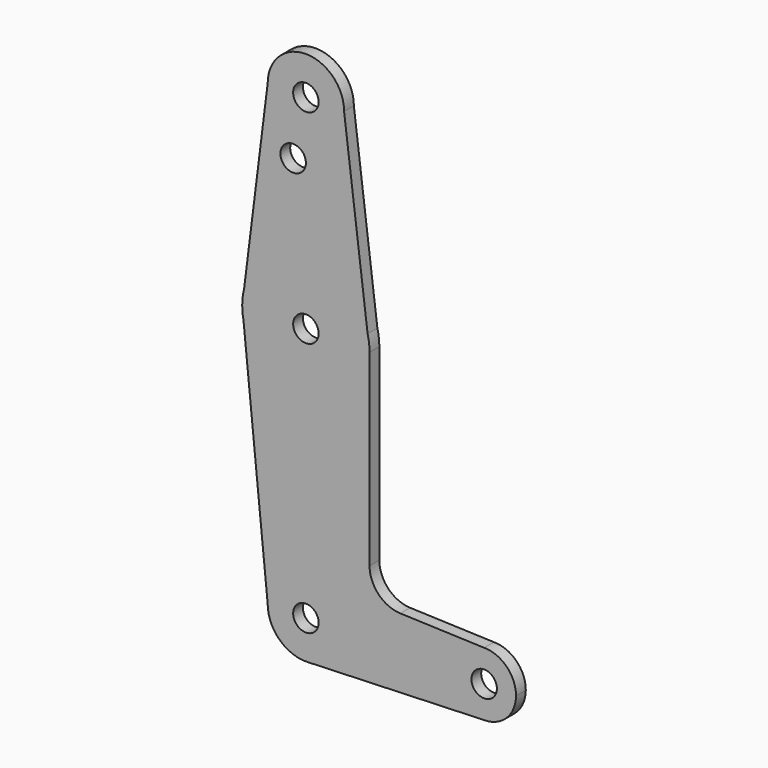
from build123d import *

# Parameters (mm, degrees)
F0_R     = 3.175
F1_DEPTH = 3.048


with BuildPart() as f1:
    # F0 (on Front) → F1 (new body)
    with BuildSketch(Plane.XZ):
        with BuildLine():
            ThreePointArc((-9.525, 114.3), (0, 104.775), (9.525, 114.3))
            ThreePointArc((9.525, 114.3), (0, 123.825), (-9.525, 114.3))
        make_face()
        with Locations((0, 114.3)):
            Circle(F0_R, mode=Mode.SUBTRACT)
        with BuildLine():
            Line((15.3865384615, 67.4076923077), (9.525, 114.3))
            ThreePointArc((9.525, 114.3), (0, 104.775), (-9.525, 114.3))
            Line((-9.525, 114.3), (-15.3865384615, 67.4076923077))
            ThreePointArc((-15.3865384615, 67.4076923077), (0, 79.375), (15.3865384615, 67.4076923077))
        make_face()
        with Locations((-3.175, 99.886942851)):
            Circle(F0_R, mode=Mode.SUBTRACT)
        with BuildLine():
            Line((15.875, 63.5), (15.3865384615, 67.4076923077))
            ThreePointArc((15.3865384615, 67.4076923077), (0, 79.375), (-15.3865384615, 67.4076923077))
            Line((-15.3865384615, 67.4076923077), (-15.875, 63.5))
            Line((-15.875, 63.5), (-15.5606435644, 60.3564356436))
            ThreePointArc((-15.5606435644, 60.3564356436), (1.5796215395, 47.7037846054), (15.875, 63.5))
        make_face()
        with Locations((0, 63.5)):
            Circle(F0_R, mode=Mode.SUBTRACT)
        with BuildLine():
            ThreePointArc((15.875, 63.5), (15.7524112928, 65.4690514116), (15.3865384615, 67.4076923077))
            Line((15.3865384615, 67.4076923077), (15.875, 63.5))
        make_face()
        with BuildLine():
            Line((-15.875, 63.5), (-15.3865384615, 67.4076923077))
            ThreePointArc((-15.3865384615, 67.4076923077), (-15.7524112928, 65.4690514116), (-15.875, 63.5))
        make_face()
        with BuildLine():
            Line((15.875, 16.6322472884), (15.875, 63.5))
            ThreePointArc((15.875, 63.5), (1.5796215395, 47.7037846054), (-15.5606435644, 60.3564356436))
            Line((-15.5606435644, 60.3564356436), (-9.525, 0))
            ThreePointArc((-9.525, 0), (0, 9.525), (9.525, 0))
            ThreePointArc((9.525, 0), (6.8547876682, -6.6134341324), (0.3412706511, -9.5188843539))
            Line((0.3412706511, -9.5188843539), (44.45, -7.9375))
            ThreePointArc((44.45, -7.9375), (36.5125, 0), (44.45, 7.9375))
            Line((44.45, 7.9375), (23.5403527632, 8.6871518144))
            ThreePointArc((23.5403527632, 8.6871518144), (18.1037372263, 11.1122342659), (15.875, 16.6322472884))
        make_face()
        with BuildLine():
            Line((-15.5606435644, 60.3564356436), (-15.875, 63.5))
            ThreePointArc((-15.875, 63.5), (-15.7962153946, 61.9203784605), (-15.5606435644, 60.3564356436))
        make_face()
        with BuildLine():
            ThreePointArc((9.525, 0), (0, 9.525), (-9.525, 0))
            ThreePointArc((-9.525, 0), (-6.6134341324, -6.8547876682), (0.3412706511, -9.5188843539))
            ThreePointArc((0.3412706511, -9.5188843539), (6.8547876682, -6.6134341324), (9.525, 0))
        make_face()
        Circle(F0_R, mode=Mode.SUBTRACT)
        with BuildLine():
            ThreePointArc((52.3875, 0), (50.0626600757, 5.6126600757), (44.45, 7.9375))
            ThreePointArc((44.45, 7.9375), (36.5125, 0), (44.45, -7.9375))
            ThreePointArc((44.45, -7.9375), (50.0626600757, -5.6126600757), (52.3875, 0))
        make_face()
        with Locations((44.45, 0)):
            Circle(F0_R, mode=Mode.SUBTRACT)
    extrude(amount=F1_DEPTH)


solid = f1.part
